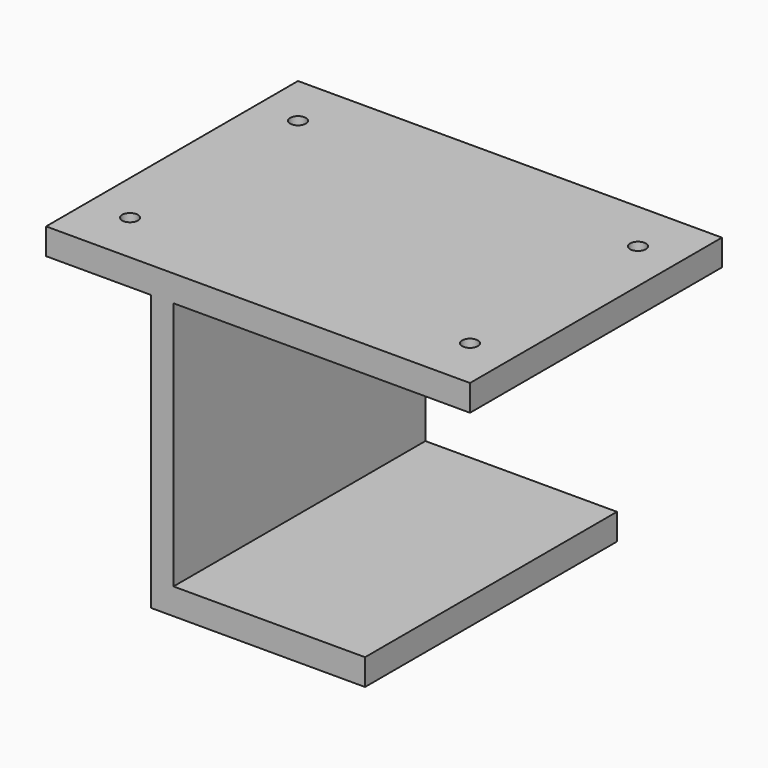
from build123d import *

# Parameters (mm, degrees)
F1_DEPTH       = 60
F3_D           = 3
F3_DEPTH       = 8
F3_CBORE_D     = 6
F3_CBORE_DEPTH = 2


with BuildPart() as f1:
    # F0 (on Front) → F1 (new body)
    with BuildSketch(Plane.XZ):
        Polygon((-27.452729, -12.57081), (-27.452729, -17.57081), (13.322818, -17.57081), (13.322818, -12.57081), (-23.177182, -12.57081), (-23.177182, 34.92919), (13.322818, 34.92919), (33.322818, 34.92919), (33.322818, 39.92919), (13.322818, 39.92919), (-27.452729, 39.92919), (-47.452729, 39.92919), (-47.452729, 34.92919), (-27.452729, 34.92919), align=None)
    extrude(amount=F1_DEPTH)

    # F3
    with Locations(Plane(origin=(0, 0, 34.92919), x_dir=(1, 0, 0), z_dir=(0, 0, -1))):
        with Locations((25.322818, 50), (25.322818, 10), (-39.452729, 10), (-39.452729, 50)):
            CounterBoreHole(F3_D / 2, F3_CBORE_D / 2, F3_CBORE_DEPTH, depth=F3_DEPTH)


solid = f1.part
